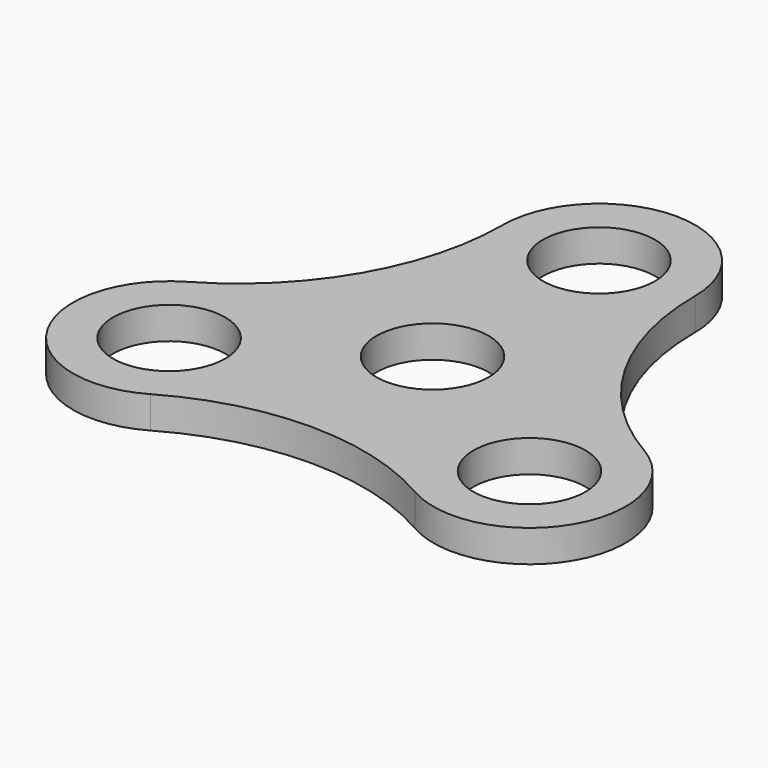
from build123d import *

# Parameters (mm, degrees)
F0_R     = 14
F1_DEPTH = 8


with BuildPart() as f1:
    # F0 (on Top) → F1 (new body)
    with BuildSketch(Plane.XY):
        with BuildLine():
            ThreePointArc((57, -5.196152), (32.842323, 18.961524), (24, 51.961524))
            ThreePointArc((24, 51.961524), (0, 75.961524), (-24, 51.961524))
            ThreePointArc((-24, 51.961524), (-32.842323, 18.961524), (-57, -5.196152))
            ThreePointArc((-57, -5.196152), (-65.78461, -37.980762), (-33, -46.765372))
            ThreePointArc((-33, -46.765372), (0, -37.923048), (33, -46.765372))
            ThreePointArc((33, -46.765372), (65.78461, -37.980762), (57, -5.196152))
        make_face()
        with Locations((-45, -25.980762)):
            Circle(F0_R, mode=Mode.SUBTRACT)
        Circle(F0_R, mode=Mode.SUBTRACT)
        with Locations((45, -25.980762)):
            Circle(F0_R, mode=Mode.SUBTRACT)
        with Locations((0, 51.961524)):
            Circle(F0_R, mode=Mode.SUBTRACT)
    extrude(amount=F1_DEPTH)


solid = f1.part
